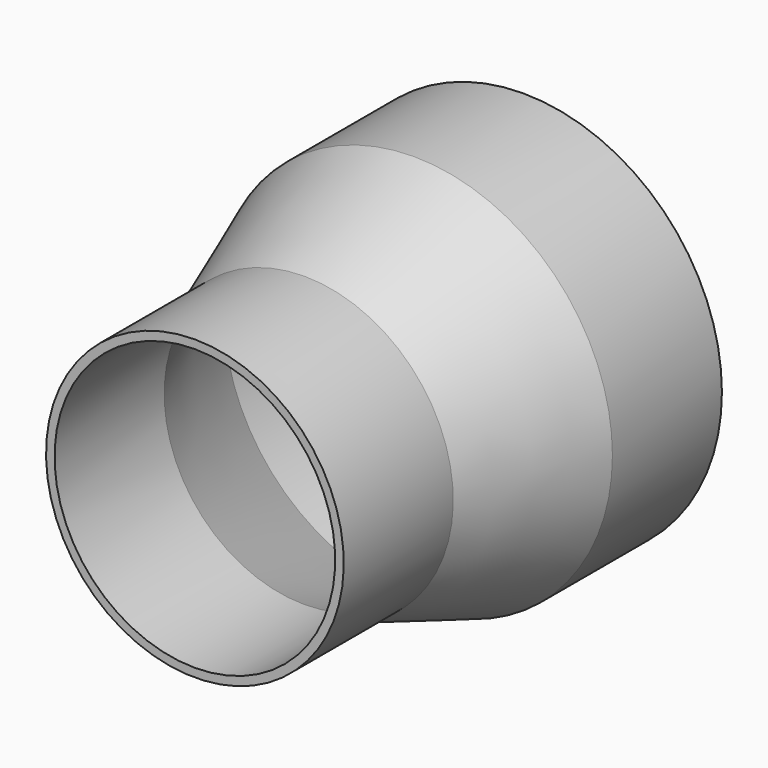
from build123d import *

# Parameters (mm, degrees)
F2_DEPTH = 25.4


with BuildPart() as f1:
    # F0 (on Right) → F1 (revolve)
    with BuildSketch(Plane.YZ):
        Polygon((0, 65.7225), (-25.4, 65.7225), (-25.4, 64.135), (0, 64.135), (25.4, 73.3425), (25.4, 74.93), align=None)
    revolve(axis=Axis((0, 22.8438180268, 38.1), (0, 1, 0)))

    # F2 (add): a face of the model
    f2_faces = [f1.faces().sort_by_distance(p)[0] for p in [
        (0, 25.4, 1.81579029),
    ]]
    extrude(f2_faces, amount=F2_DEPTH)


solid = f1.part
